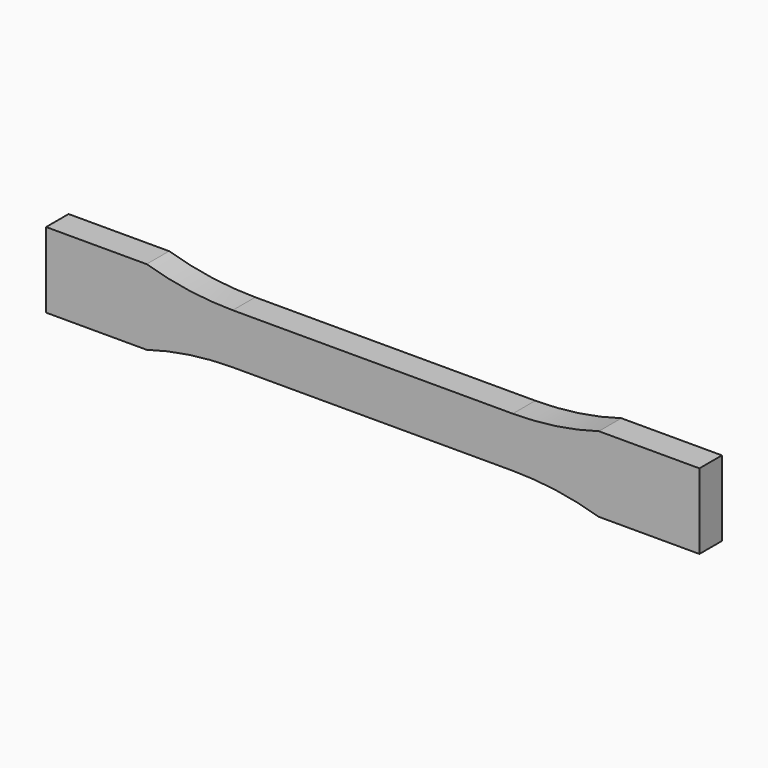
from build123d import *

# Parameters (mm, degrees)
F1_DEPTH = 7.112


with BuildPart() as f1:
    # F0 (on Front) → F1 (new body)
    with BuildSketch(Plane.XZ):
        with BuildLine():
            Line((35.383297, 6.35), (0, 6.35))
            Line((0, 6.35), (-35.383297, 6.35))
            ThreePointArc((-35.383297, 6.35), (-46.381819, 7.147928), (-57.15, 9.525))
            Line((-57.15, 9.525), (-82.55, 9.525))
            Line((-82.55, 9.525), (-82.55, -9.525))
            Line((-82.55, -9.525), (-57.15, -9.525))
            ThreePointArc((-57.15, -9.525), (-46.381819, -7.147928), (-35.383297, -6.35))
            Line((-35.383297, -6.35), (0, -6.35))
            Line((0, -6.35), (35.383297, -6.35))
            ThreePointArc((35.383297, -6.35), (46.381819, -7.147928), (57.15, -9.525))
            Line((57.15, -9.525), (82.55, -9.525))
            Line((82.55, -9.525), (82.55, 9.525))
            Line((82.55, 9.525), (57.15, 9.525))
            ThreePointArc((57.15, 9.525), (46.381819, 7.147928), (35.383297, 6.35))
        make_face()
    extrude(amount=F1_DEPTH)


solid = f1.part
